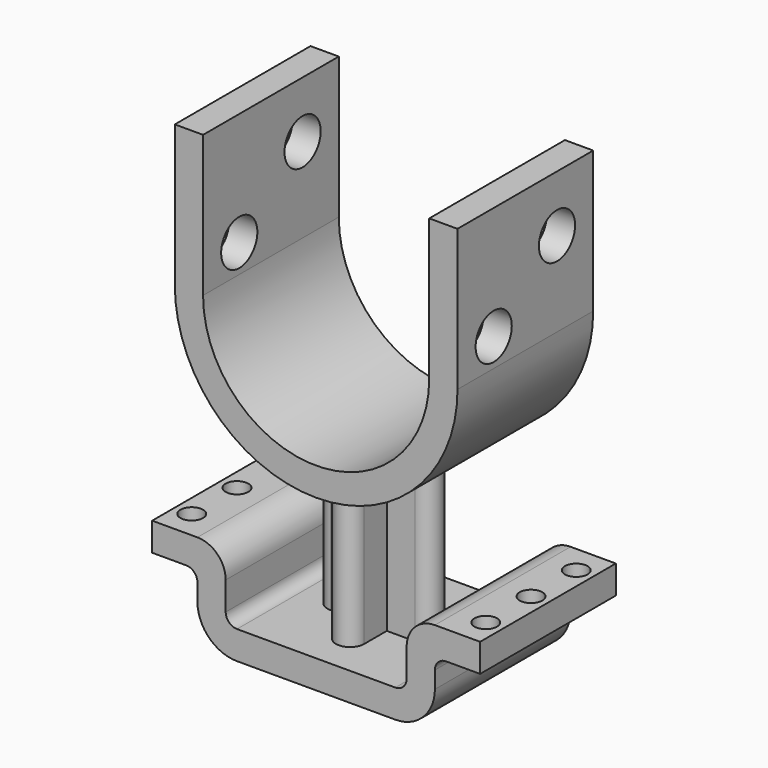
from build123d import *

# Parameters (mm, degrees)
F1_DEPTH = 15
F3_DEPTH = 28.0871216252
F4_R     = 2
F5_DEPTH = 5
F6_R     = 4
F7_DEPTH = 54.001


with BuildPart() as f1:
    # F0 (on Front) → F1 (new body, symmetric)
    with BuildSketch(Plane.XZ):
        with BuildLine():
            Line((-25, 25), (-25, 0))
            ThreePointArc((-25, 0), (0, -25), (25, 0))
            Line((25, 0), (25, 25))
            Line((25, 25), (20, 25))
            Line((20, 25), (20, 0))
            ThreePointArc((20, 0), (0, -20), (-20, 0))
            Line((-20, 0), (-20, 25))
            Line((-20, 25), (-25, 25))
        make_face()
    extrude(amount=F1_DEPTH, both=True)



with BuildPart() as f1b:
    # F0 (on Front) → F1, piece 2 (new body, symmetric)
    with BuildSketch(Plane.XZ):
        with BuildLine():
            Line((14, -50), (0, -50))
            Line((0, -50), (-14, -50))
            ThreePointArc((-14, -50), (-15.4142135624, -49.4142135624), (-16, -48))
            Line((-16, -48), (-16, -43))
            ThreePointArc((-16, -43), (-17.4644660941, -39.4644660941), (-21, -38))
            Line((-21, -38), (-29, -38))
            Line((-29, -38), (-29, -43))
            Line((-29, -43), (-23, -43))
            ThreePointArc((-23, -43), (-21.5857864376, -43.5857864376), (-21, -45))
            Line((-21, -45), (-21, -48))
            ThreePointArc((-21, -48), (-18.9497474683, -52.9497474683), (-14, -55))
            Line((-14, -55), (14, -55))
            ThreePointArc((14, -55), (18.9497474683, -52.9497474683), (21, -48))
            Line((21, -48), (21, -45))
            ThreePointArc((21, -45), (21.5857864376, -43.5857864376), (23, -43))
            Line((23, -43), (29, -43))
            Line((29, -43), (29, -38))
            Line((29, -38), (21, -38))
            ThreePointArc((21, -38), (17.4644660941, -39.4644660941), (16, -43))
            Line((16, -43), (16, -48))
            ThreePointArc((16, -48), (15.4142135624, -49.4142135624), (14, -50))
        make_face()
    extrude(amount=F1_DEPTH, both=True)


with BuildPart() as f1_1:
    add(f1.part)

    add(f1b.part)  # F3 merges F1b
    # F2 (on face) → F3 (join, up to face)
    with BuildSketch(Plane.XY.offset(-50)):
        with BuildLine():
            ThreePointArc((7.5, -2.5), (10, 0), (7.5, 2.5))
            Line((7.5, 2.5), (2.5, 2.5))
            Line((2.5, 2.5), (2.5, 7.5))
            ThreePointArc((2.5, 7.5), (0, 10), (-2.5, 7.5))
            Line((-2.5, 7.5), (-2.5, 2.5))
            Line((-2.5, 2.5), (-7.5, 2.5))
            ThreePointArc((-7.5, 2.5), (-10, 0), (-7.5, -2.5))
            Line((-7.5, -2.5), (-2.5, -2.5))
            Line((-2.5, -2.5), (-2.5, -7.5))
            ThreePointArc((-2.5, -7.5), (0, -10), (2.5, -7.5))
            Line((2.5, -7.5), (2.5, -2.5))
            Line((2.5, -2.5), (7.5, -2.5))
        make_face()
    extrude(amount=F3_DEPTH)

    # F4 (on face) → F5 (cut, through all)
    with BuildSketch(Plane(origin=(0, 0, -43), x_dir=(1, 0, 0), z_dir=(0, 0, -1))):
        with Locations((-26, -10)):
            Circle(F4_R)
        with Locations((-26, 0)):
            Circle(F4_R)
        with Locations((-26, 10)):
            Circle(F4_R)
        with Locations((26, -10)):
            Circle(F4_R)
        with Locations((26, 0)):
            Circle(F4_R)
        with Locations((26, 10)):
            Circle(F4_R)
    extrude(amount=-F5_DEPTH, mode=Mode.SUBTRACT)

    # F6 (on face) → F7 (cut, through all)
    with BuildSketch(Plane.YZ.offset(25)):
        with Locations((-7, 5)):
            Circle(F6_R)
        with Locations((7, 15)):
            Circle(F6_R)
    extrude(amount=-F7_DEPTH, mode=Mode.SUBTRACT)


solid = f1_1.part
